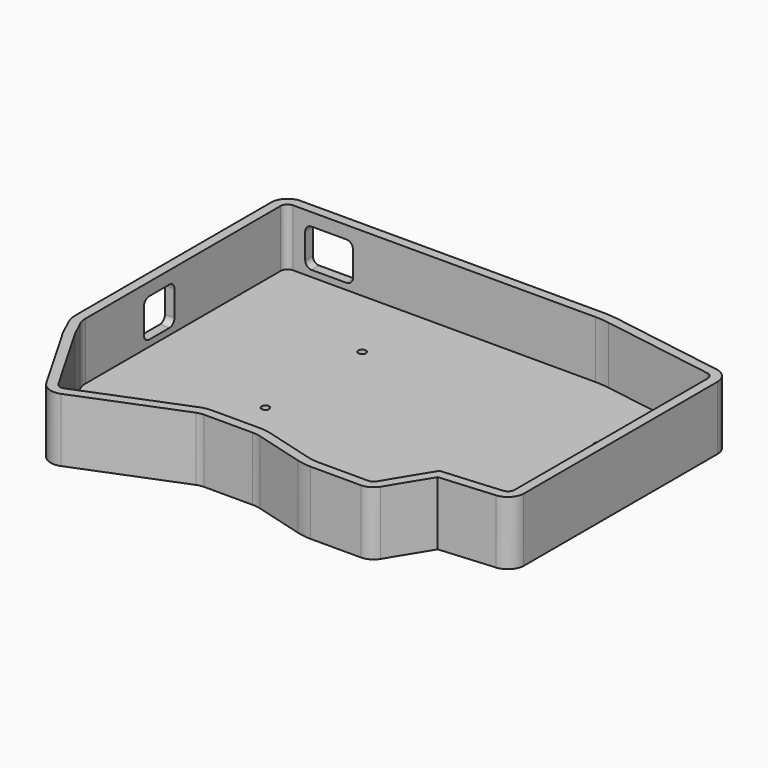
from build123d import *

# Parameters (mm, degrees)
PAD_DEPTH       = 20
POCKET_DEPTH    = 18
SKETCH005_R     = 1.2
POCKET003_DEPTH = 20.001
POCKET004_DEPTH = 5
POCKET005_DEPTH = 5


with BuildPart() as part:
    # Sketch001 → Pad (new body)
    with BuildSketch(Plane.XY):
        with BuildLine():
            Line((-67.426499, 58.585), (27.6535, 58.585))
            ThreePointArc((32.698116, 58.172721), (30.184217, 58.481759), (27.6535, 58.585))
            Line((32.698116, 58.172721), (67.893206, 52.473431))
            ThreePointArc((72.6, 47.295321), (71.258477, 50.804149), (67.893206, 52.473431))
            Line((72.6, 47.295321), (72.6, -28.937809))
            ThreePointArc((67.878753, -33.701756), (71.12035, -32.19286), (72.6, -28.937809))
            Line((67.878753, -33.701756), (50.609101, -35.095512))
            Line((42.845448, -47.852044), (50.609101, -35.095512))
            ThreePointArc((38.559931, -50.255), (41.007059, -49.596346), (42.845448, -47.852044))
            Line((22.7635, -50.255), (38.559931, -50.255))
            ThreePointArc((18.35348, -49.643055), (20.537362, -50.101284), (22.7635, -50.255))
            Line((2.999306, -45.370847), (18.35348, -49.643055))
            ThreePointArc((2.999306, -45.370847), (1.67385, -45.096885), (0.3235, -45.005))
            Line((-14.8965, -45.005), (0.3235, -45.005))
            ThreePointArc((-14.8965, -45.005), (-16.054737, -45.11454), (-17.171903, -45.439275))
            Line((-49.26854, -58.28994), (-17.171903, -45.439275))
            ThreePointArc((-55.670661, -56.084897), (-52.881781, -58.384143), (-49.26854, -58.28994))
            Line((-55.670661, -56.084897), (-69.279896, -32.511389))
            Line((-69.279896, -32.511389), (-71.638452, -27.473846))
            ThreePointArc((-72.5865, -23.314273), (-72.342256, -25.446431), (-71.638452, -27.473846))
            Line((-72.5865, -23.314273), (-72.5865, 53.425))
            ThreePointArc((-67.426499, 58.585), (-71.075171, 57.073671), (-72.5865, 53.425))
        make_face()
    extrude(amount=-PAD_DEPTH)

    # Sketch002 → Pocket (cut)
    with BuildSketch(Plane.XY):
        with BuildLine():
            Line((-67.4265, 55.585), (27.6535, 55.585))
            ThreePointArc((32.06601, 55.236001), (29.866645, 55.497614), (27.6535, 55.585))
            Line((32.06601, 55.236001), (67.545103, 49.490722))
            ThreePointArc((69.6, 47.317506), (69.009594, 48.817361), (67.545103, 49.490722))
            Line((69.6, 47.317506), (69.6, -28.805775))
            ThreePointArc((67.634813, -30.711689), (68.959166, -30.11112), (69.6, -28.805775))
            Line((67.634813, -30.711689), (48.91361, -32.222593))
            ThreePointArc((48.91361, -32.222593), (48.852847, -32.240442), (48.807734, -32.284889))
            Line((40.308987, -46.249261), (48.807734, -32.284889))
            ThreePointArc((38.508222, -47.255), (39.536447, -46.98103), (40.308987, -46.249261))
            Line((22.7635, -47.255), (38.508222, -47.255))
            ThreePointArc((19.164322, -46.754702), (20.946609, -47.129327), (22.7635, -47.255))
            Line((3.804006, -42.480786), (19.164322, -46.754702))
            ThreePointArc((3.804006, -42.480786), (2.079938, -42.124497), (0.3235, -42.005))
            Line((-14.8965, -42.005), (0.3235, -42.005))
            ThreePointArc((-14.8965, -42.005), (-16.647117, -42.1735), (-18.333455, -42.672814))
            Line((-50.407295, -55.514352), (-18.333455, -42.672814))
            ThreePointArc((-53.07254, -54.584974), (-51.912632, -55.544969), (-50.407295, -55.514352))
            Line((-53.07254, -54.584974), (-66.617474, -31.122847))
            Line((-66.617474, -31.122847), (-68.929488, -26.184711))
            ThreePointArc((-69.5865, -23.291347), (-69.418415, -24.774457), (-68.929488, -26.184711))
            Line((-69.5865, -23.291347), (-69.5865, 53.425))
            ThreePointArc((-67.4265, 55.585), (-68.953851, 54.952351), (-69.5865, 53.425))
        make_face()
    extrude(amount=-POCKET_DEPTH, mode=Mode.SUBTRACT)

    # Sketch005 → Pocket003 (cut, through all)
    with BuildSketch(Plane.XY):
        with Locations((-27.0865, 32.315)):
            Circle(SKETCH005_R)
        with Locations((48.9135, -8.415)):
            Circle(SKETCH005_R)
        with Locations((48.9135, 30.085)):
            Circle(SKETCH005_R)
        with Locations((-27.0865, -5.715)):
            Circle(SKETCH005_R)
        with Locations((-51.5865, -22.915)):
            Circle(SKETCH005_R)
    extrude(amount=-POCKET003_DEPTH, mode=Mode.SUBTRACT)

    # Sketch003 (on Face7 of Pocket) → Pocket004 (cut)
    with BuildSketch(Plane(origin=(0, 58.585, 0), x_dir=(-1, 0, 0), z_dir=(0, 1, 0))):
        with BuildLine():
            Line((50.59, -4), (61.59, -4))
            ThreePointArc((63.59, -6), (63.004214, -4.585786), (61.59, -4))
            Line((63.59, -6), (63.59, -14))
            ThreePointArc((61.59, -16), (63.004214, -15.414214), (63.59, -14))
            Line((61.59, -16), (50.59, -16))
            ThreePointArc((48.59, -14), (49.175786, -15.414214), (50.59, -16))
            Line((48.59, -14), (48.59, -6))
            ThreePointArc((50.59, -4), (49.175786, -4.585786), (48.59, -6))
        make_face()
    extrude(amount=-POCKET004_DEPTH, mode=Mode.SUBTRACT)

    # Sketch004 (on Face1 of Pocket004) → Pocket005 (cut)
    with BuildSketch(Plane(origin=(-72.5865, 0, 0), x_dir=(0, -1, 0), z_dir=(-1, 0, 0))):
        with BuildLine():
            Line((-9.69, -4), (-1.69, -4))
            ThreePointArc((0.31, -6), (-0.275786, -4.585786), (-1.69, -4))
            Line((0.31, -6), (0.31, -14))
            ThreePointArc((-1.69, -16), (-0.275786, -15.414214), (0.31, -14))
            Line((-1.69, -16), (-9.69, -16))
            ThreePointArc((-11.69, -14), (-11.104214, -15.414214), (-9.69, -16))
            Line((-11.69, -14), (-11.69, -6))
            ThreePointArc((-9.69, -4), (-11.104214, -4.585786), (-11.69, -6))
        make_face()
    extrude(amount=-POCKET005_DEPTH, mode=Mode.SUBTRACT)


solid = part.part
